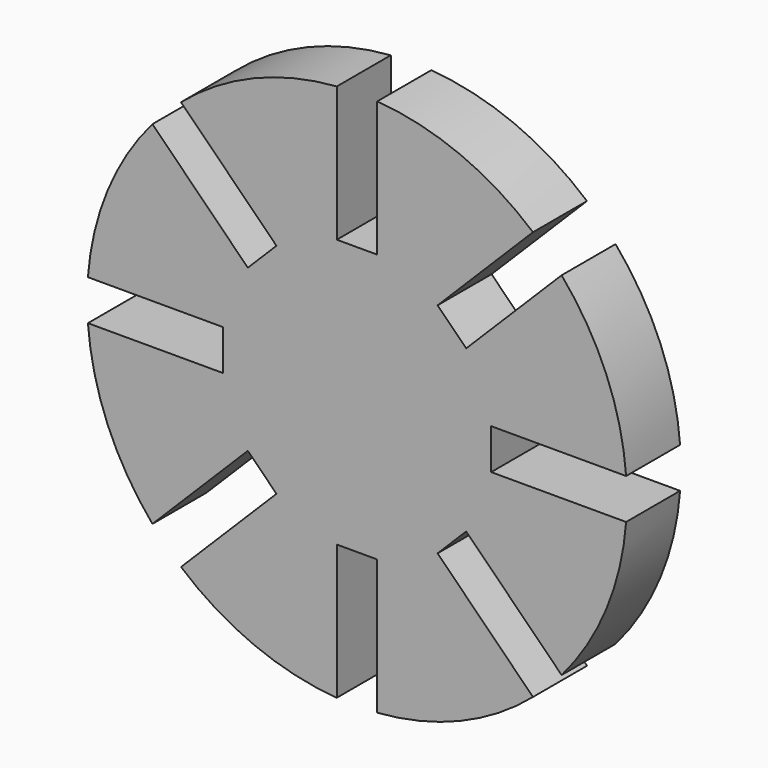
from build123d import *

# Parameters (mm, degrees)
F1_DEPTH = 5


with BuildPart() as f1:
    # F0 (on Front) → F1 (new body)
    with BuildSketch(Plane.XZ):
        with BuildLine():
            Line((-1.498945, 9.94375), (-1.498945, 19.94375))
            ThreePointArc((-1.498945, 19.94375), (-7.653669, 18.477591), (-13.042447, 15.162275))
            Line((-13.042447, 15.162275), (-5.971379, 8.091207))
            Line((-5.971379, 8.091207), (-8.091207, 5.971379))
            Line((-8.091207, 5.971379), (-15.162275, 13.042447))
            ThreePointArc((-15.162275, 13.042447), (-18.477591, 7.653669), (-19.94375, 1.498945))
            Line((-19.94375, 1.498945), (-9.94375, 1.498945))
            Line((-9.94375, 1.498945), (-9.94375, -1.498945))
            Line((-9.94375, -1.498945), (-19.94375, -1.498945))
            ThreePointArc((-19.94375, -1.498945), (-18.477591, -7.653669), (-15.162275, -13.042447))
            Line((-15.162275, -13.042447), (-8.091207, -5.971379))
            Line((-8.091207, -5.971379), (-5.971379, -8.091207))
            Line((-5.971379, -8.091207), (-13.042447, -15.162275))
            ThreePointArc((-13.042447, -15.162275), (-7.653669, -18.477591), (-1.498945, -19.94375))
            Line((-1.498945, -19.94375), (-1.498945, -9.94375))
            Line((-1.498945, -9.94375), (1.498945, -9.94375))
            Line((1.498945, -9.94375), (1.498945, -19.94375))
            ThreePointArc((1.498945, -19.94375), (7.653669, -18.477591), (13.042447, -15.162275))
            Line((13.042447, -15.162275), (5.971379, -8.091207))
            Line((5.971379, -8.091207), (8.091207, -5.971379))
            Line((8.091207, -5.971379), (15.162275, -13.042447))
            ThreePointArc((15.162275, -13.042447), (18.477591, -7.653669), (19.94375, -1.498945))
            Line((19.94375, -1.498945), (9.94375, -1.498945))
            Line((9.94375, -1.498945), (9.94375, 1.498945))
            Line((9.94375, 1.498945), (19.94375, 1.498945))
            ThreePointArc((19.94375, 1.498945), (18.477591, 7.653669), (15.162275, 13.042447))
            Line((15.162275, 13.042447), (8.091207, 5.971379))
            Line((8.091207, 5.971379), (5.971379, 8.091207))
            Line((5.971379, 8.091207), (13.042447, 15.162275))
            ThreePointArc((13.042447, 15.162275), (7.653669, 18.477591), (1.498945, 19.94375))
            Line((1.498945, 19.94375), (1.498945, 9.94375))
            Line((1.498945, 9.94375), (-1.498945, 9.94375))
        make_face()
    extrude(amount=F1_DEPTH)


solid = f1.part
